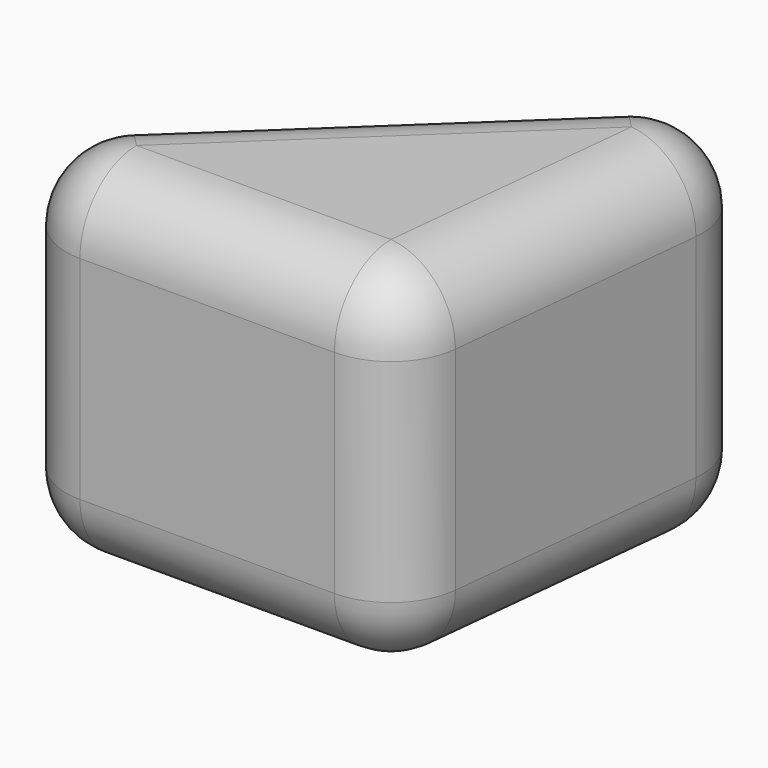
from build123d import *

# Parameters (mm, degrees)
F1_DEPTH = 100
F2_R     = 20


with BuildPart() as f1:
    # F0 (on Top) → F1 (new body)
    with BuildSketch(Plane.XY):
        Polygon((65.410733, -64.802073), (80.699533, 81.911258), (-68.142453, -58.360403), (-74.977696, -64.802073), align=None)
    extrude(amount=F1_DEPTH)

    # F2
    f2_edges = [f1.edges().sort_by_distance(p)[0] for p in [
        (73.055133, 8.554593, 100),
        (2.860919, 8.554593, 100),
        (-4.783481, -64.802073, 100),
        (65.410733, -64.802073, 50),
        (80.699533, 81.911258, 50),
        (73.055133, 8.554593, 0),
        (-74.977696, -64.802073, 50),
        (-4.783481, -64.802073, 0),
        (2.860919, 8.554593, 0),
    ]]
    fillet(f2_edges, radius=F2_R)


solid = f1.part
